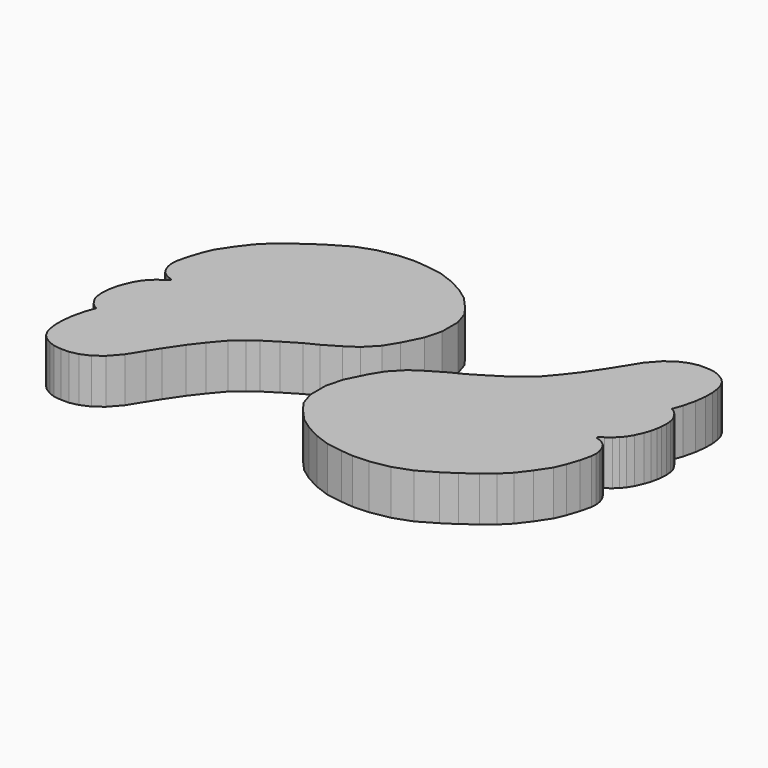
from build123d import *

# Parameters (mm, degrees)
PAD034_DEPTH            = 5
BODY034_PLACEMENT_ANGLE = 180
PAD033_DEPTH            = 5


with BuildPart() as body034:
    # Sketch036 → Pad034 (new body)
    with BuildSketch(Plane.XY):
        Polygon((-0.715895, 10.459235), (0.958153, 11.443971), (2.336782, 12.133285), (4.060069, 13.167257), (5.537171, 14.102756), (6.536532, 14.831632), (7.712062, 15.853839), (8.973101, 17.336113), (10.079276, 18.774139), (11.296068, 20.566143), (12.092514, 21.827183), (13.116936, 23.475929), (14.223111, 24.736969), (15.240791, 25.489166), (16.280596, 25.931637), (17.221134, 26.137039), (18.110924, 26.137039), (18.926565, 26.048061), (19.579077, 25.810783), (20.261248, 25.395548), (20.720972, 24.935823), (21.062059, 24.312971), (21.241928, 23.641508), (21.345737, 22.840698), (21.345737, 21.87676), (21.197439, 20.690374), (20.871256, 19.321636), (20.485682, 18.239059), (20.894186, 17.997505), (21.202349, 17.699284), (21.480688, 17.301653), (21.749088, 16.804617), (21.858437, 16.327463), (21.90814, 15.76084), (21.878248, 15.092189), (21.808664, 14.545448), (21.659552, 13.879419), (21.430916, 13.203449), (21.042017, 12.334372), (20.664268, 11.708105), (20.256699, 11.221009), (19.799425, 10.813439), (19.252686, 10.395929), (18.77553, 10.048003), (18.764149, 9.924158), (18.923201, 9.834691), (19.221422, 9.765106), (19.569347, 9.566292), (19.998131, 9.245623), (20.23671, 8.897697), (20.435524, 8.450364), (20.544872, 8.11238), (20.634338, 7.525877), (20.584635, 6.919492), (20.302982, 5.715654), (19.850153, 4.339052), (19.361095, 3.179808), (18.328644, 1.640186), (17.289362, 0.272043), (16.238798, -0.778522), (15.043327, -1.720408), (13.576158, -2.8072), (12.181441, -3.71286), (10.236815, -4.842392), (8.226252, -5.56692), (6.107007, -5.947297), (4.295688, -6.01975), (2.991537, -5.892957), (1.173591, -5.613963), (-0.443623, -5.019885), (-1.961825, -4.227778), (-3.248996, -3.303655), (-4.536168, -1.884467), (-5.262265, -0.86133), (-5.75733, 0.656871), (-5.75733, 2.868166), (-5.262265, 4.716413), (-4.237876, 6.772507), (-3.346758, 8.224701), (-2.043983, 9.573533), align=None)
    extrude(amount=PAD034_DEPTH)


with BuildPart() as body034_1:
    # Body034 placement: moved
    add(body034.part.moved(Location((-10, 20, -5))).rotate(Axis((-10, 20, -5), (0, 0, 1)), BODY034_PLACEMENT_ANGLE))


with BuildPart() as fusion003:
    # Sketch035 → Pad033 (new body)
    with BuildSketch(Plane.XY):
        Polygon((-0.715895, 10.459235), (0.958153, 11.443971), (2.336782, 12.133285), (4.060069, 13.167257), (5.537171, 14.102756), (6.536532, 14.831632), (7.712062, 15.853839), (8.973101, 17.336113), (10.079276, 18.774139), (11.296068, 20.566143), (12.092514, 21.827183), (13.116936, 23.475929), (14.223111, 24.736969), (15.240791, 25.489166), (16.280596, 25.931637), (17.221134, 26.137039), (18.110924, 26.137039), (18.926565, 26.048061), (19.579077, 25.810783), (20.261248, 25.395548), (20.720972, 24.935823), (21.062059, 24.312971), (21.241928, 23.641508), (21.345737, 22.840698), (21.345737, 21.87676), (21.197439, 20.690374), (20.871256, 19.321636), (20.485682, 18.239059), (20.894186, 17.997505), (21.202349, 17.699284), (21.480688, 17.301653), (21.749088, 16.804617), (21.858437, 16.327463), (21.90814, 15.76084), (21.878248, 15.092189), (21.808664, 14.545448), (21.659552, 13.879419), (21.430916, 13.203449), (21.042017, 12.334372), (20.664268, 11.708105), (20.256699, 11.221009), (19.799425, 10.813439), (19.252686, 10.395929), (18.77553, 10.048003), (18.764149, 9.924158), (18.923201, 9.834691), (19.221422, 9.765106), (19.569347, 9.566292), (19.998131, 9.245623), (20.23671, 8.897697), (20.435524, 8.450364), (20.544872, 8.11238), (20.634338, 7.525877), (20.584635, 6.919492), (20.302982, 5.715654), (19.850153, 4.339052), (19.361095, 3.179808), (18.328644, 1.640186), (17.289362, 0.272043), (16.238798, -0.778522), (15.043327, -1.720408), (13.576158, -2.8072), (12.181441, -3.71286), (10.236815, -4.842392), (8.226252, -5.56692), (6.107007, -5.947297), (4.295688, -6.01975), (2.991537, -5.892957), (1.173591, -5.613963), (-0.443623, -5.019885), (-1.961825, -4.227778), (-3.248996, -3.303655), (-4.536168, -1.884467), (-5.262265, -0.86133), (-5.75733, 0.656871), (-5.75733, 2.868166), (-5.262265, 4.716413), (-4.237876, 6.772507), (-3.346758, 8.224701), (-2.043983, 9.573533), align=None)
    extrude(amount=PAD033_DEPTH)


with BuildPart() as fusion003_1:
    # Body033 placement: moved
    add(fusion003.part.moved(Location((0, 0, -5))))

    # Fusion003: union Body034
    add(body034_1.part)


with BuildPart() as fusion003_2:
    # Fusion003 placement: moved
    add(fusion003_1.part.moved(Location((-80, -45, 0))))


solid = fusion003_2.part
